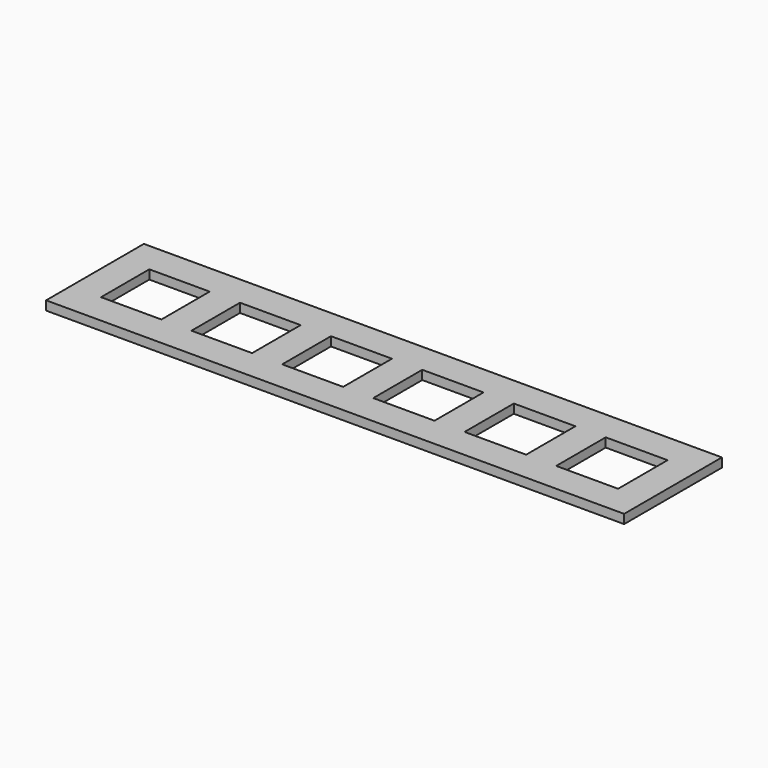
from build123d import *

# Parameters (mm, degrees)
F0_W     = 191.499874
F0_H     = 40.5
F0_W_2   = 20
F0_H_2   = 20
F0_W_3   = 20.1
F0_H_3   = 20.1
F0_W_4   = 20.2
F0_H_4   = 20.2
F0_W_5   = 20.3
F0_H_5   = 20.3
F0_W_6   = 20.4
F0_H_6   = 20.4
F0_W_7   = 20.5
F0_H_7   = 20.5
F1_DEPTH = 3


with BuildPart() as f1:
    # F0 (on Top) → F1 (new body)
    with BuildSketch(Plane.XY):
        Rectangle(F0_W, F0_H)
        with Locations((-75.749937, 0)):
            Rectangle(F0_W_2, F0_H_2, mode=Mode.SUBTRACT)
        with Locations((-45.699937, 0)):
            Rectangle(F0_W_3, F0_H_3, mode=Mode.SUBTRACT)
        with Locations((-15.550063, 0)):
            Rectangle(F0_W_4, F0_H_4, mode=Mode.SUBTRACT)
        with Locations((14.699937, 0)):
            Rectangle(F0_W_5, F0_H_5, mode=Mode.SUBTRACT)
        with Locations((45.049937, 0)):
            Rectangle(F0_W_6, F0_H_6, mode=Mode.SUBTRACT)
        with Locations((75.499937, 0)):
            Rectangle(F0_W_7, F0_H_7, mode=Mode.SUBTRACT)
    extrude(amount=F1_DEPTH)


solid = f1.part
